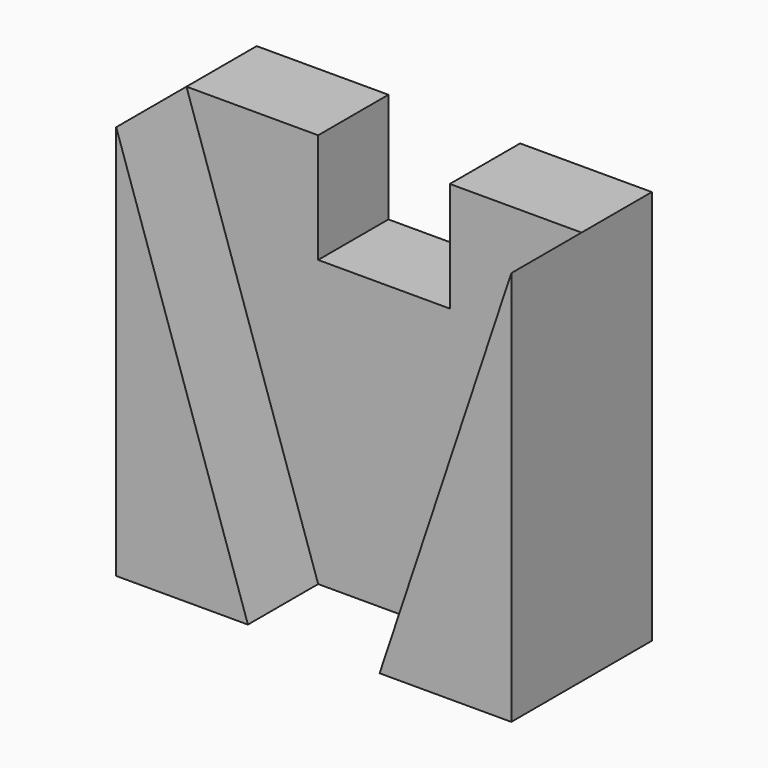
from build123d import *

# Parameters (mm, degrees)
F1_DEPTH = 20
F3_DEPTH = 20


with BuildPart() as f1:
    # F0 (on Front) → F1 (new body)
    with BuildSketch(Plane.XZ):
        Polygon((15, 32.5), (-15, 32.5), (-15, 57.5), (-45, 57.5), (-45, 32.5), (-45, -32.5), (45, -32.5), (45, 32.5), (45, 57.5), (15, 57.5), align=None)
    extrude(amount=F1_DEPTH)

    # F2 (on face) → F3 (join)
    with BuildSketch(Plane.XZ.offset(20)):
        Polygon((-15, -32.5), (-45, 57.5), (-45, -32.5), align=None)
        Polygon((45, 57.5), (15, -32.5), (45, -32.5), align=None)
    extrude(amount=F3_DEPTH)


solid = f1.part
